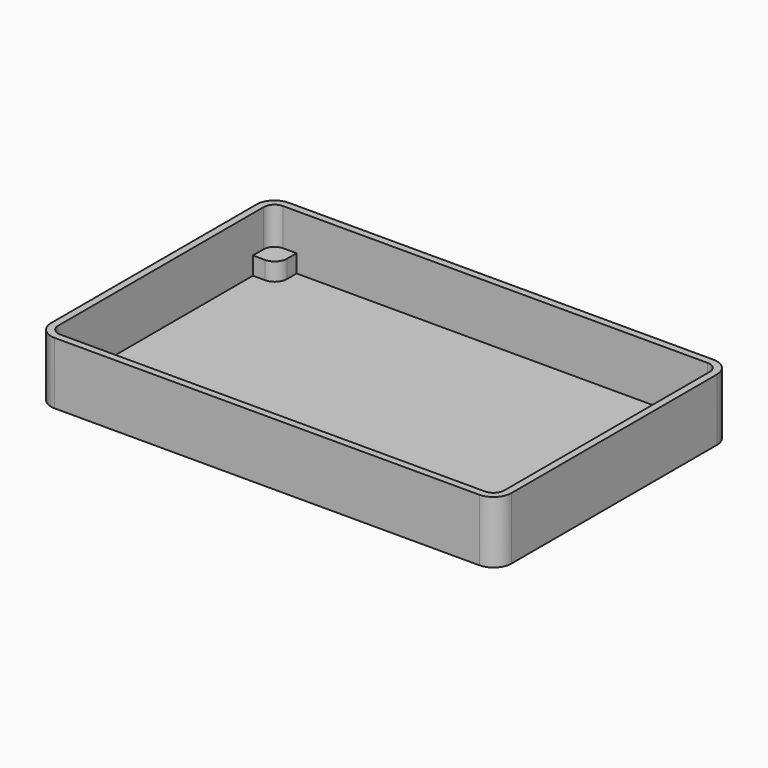
from build123d import *

# Parameters (mm, degrees)
PAD_DEPTH    = 15.4
THICKNESS_T  = 2
PAD001_DEPTH = 5


with BuildPart() as part:
    # Sketch → Pad (new body)
    with BuildSketch(Plane.XY):
        with BuildLine():
            ThreePointArc((-59.5, 39), (-61.6213203436, 38.1213203436), (-62.5, 36))
            Line((-62.5, -36), (-62.5, 36))
            ThreePointArc((-62.5, -36), (-61.6213203436, -38.1213203436), (-59.5, -39))
            Line((59.5, -39), (-59.5, -39))
            ThreePointArc((59.5, -39), (61.6213203436, -38.1213203436), (62.5, -36))
            Line((62.5, 36), (62.5, -36))
            ThreePointArc((62.5, 36), (61.6213203436, 38.1213203436), (59.5, 39))
            Line((-59.5, 39), (59.5, 39))
        make_face()
    extrude(amount=PAD_DEPTH)

    # Thickness
    thickness_openings = [part.faces().sort_by_distance(p)[0] for p in [
        (0, 0, 15.4),
    ]]
    offset(amount=THICKNESS_T, openings=thickness_openings, kind=Kind.INTERSECTION)

    # Sketch003 → Pad001 (join)
    with BuildSketch(Plane.XY):
        with BuildLine():
            Line((-59.5, 39), (-55.7, 39))
            Line((-55.7, 39), (-55.7, 35.6))
            ThreePointArc((-59.1, 32.2), (-56.695836944, 33.195836944), (-55.7, 35.6))
            Line((-62.5, 32.2), (-59.1, 32.2))
            Line((-62.5, 36), (-62.5, 32.2))
            ThreePointArc((-59.5, 39), (-61.6213203436, 38.1213203436), (-62.5, 36))
        make_face()
        with BuildLine():
            Line((-59.5, -39), (-55.7, -39))
            Line((-55.7, -39), (-55.7, -35.6))
            ThreePointArc((-55.7, -35.6), (-56.695836944, -33.195836944), (-59.1, -32.2))
            Line((-62.5, -32.2), (-59.1, -32.2))
            Line((-62.5, -36), (-62.5, -32.2))
            ThreePointArc((-62.5, -36), (-61.6213203436, -38.1213203436), (-59.5, -39))
        make_face()
        with BuildLine():
            Line((59.5, 39), (55.7, 39))
            Line((55.7, 39), (55.7, 35.6))
            ThreePointArc((55.7, 35.6), (56.695836944, 33.195836944), (59.1, 32.2))
            Line((62.5, 32.2), (59.1, 32.2))
            Line((62.5, 36), (62.5, 32.2))
            ThreePointArc((62.5, 36), (61.6213203436, 38.1213203436), (59.5, 39))
        make_face()
        with BuildLine():
            Line((59.5, -39), (55.7, -39))
            Line((55.7, -39), (55.7, -35.6))
            ThreePointArc((59.1, -32.2), (56.695836944, -33.195836944), (55.7, -35.6))
            Line((62.5, -32.2), (59.1, -32.2))
            Line((62.5, -36), (62.5, -32.2))
            ThreePointArc((59.5, -39), (61.6213203436, -38.1213203436), (62.5, -36))
        make_face()
    extrude(amount=PAD001_DEPTH)


solid = part.part
